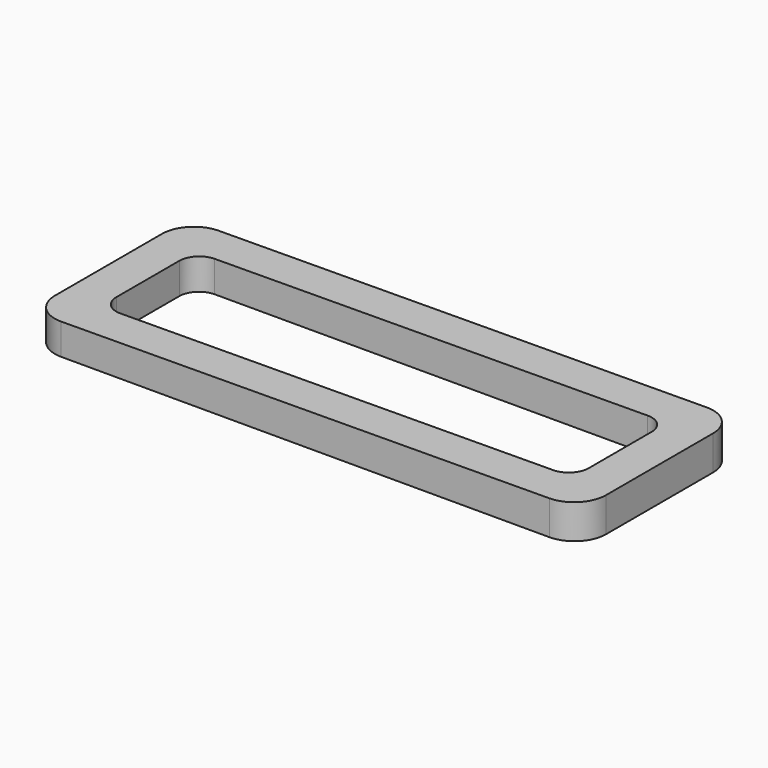
from build123d import *

# Parameters (mm, degrees)
F3_DEPTH = 31.75
F5_DEPTH = 5.55725
F6_R     = 5.08


with BuildPart() as f3:
    # F1 (on Front) → F3 (new body)
    with BuildSketch(Plane.XZ):
        Polygon((609.6, 0), (609.6, 5.55625), (520.7, 4.977474), (520.7, 0), align=None)
    extrude(amount=F3_DEPTH)

    # F4 (on face) → F5 (cut, through all)
    with BuildSketch(Plane(origin=(0, 0, 0), x_dir=(1, 0, 0), z_dir=(0, 0, -1))):
        with BuildLine():
            Line((600.075, 25.4), (530.225, 25.4))
            ThreePointArc((530.225, 25.4), (527.979936, 24.470064), (527.05, 22.225))
            Line((527.05, 22.225), (527.05, 9.525))
            ThreePointArc((527.05, 9.525), (527.979936, 7.279936), (530.225, 6.35))
            Line((530.225, 6.35), (600.075, 6.35))
            ThreePointArc((600.075, 6.35), (602.320064, 7.279936), (603.25, 9.525))
            Line((603.25, 9.525), (603.25, 22.225))
            ThreePointArc((603.25, 22.225), (602.320064, 24.470064), (600.075, 25.4))
        make_face()
    extrude(amount=-F5_DEPTH, mode=Mode.SUBTRACT)

    # F6
    f6_edges = [f3.edges().sort_by_distance(p)[0] for p in [
        (520.7, -31.75, 2.488737),
        (520.7, 0, 2.488737),
        (609.6, -31.75, 2.778125),
        (609.6, 0, 2.778125),
    ]]
    fillet(f6_edges, radius=F6_R)


solid = f3.part
